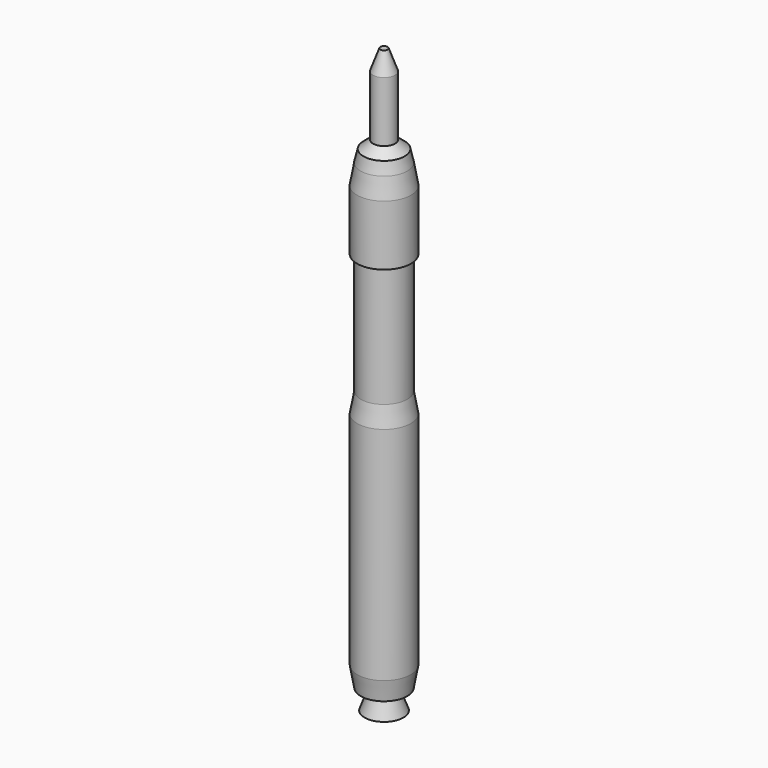
from build123d import *

# Parameters (mm, degrees)
F0_R          = 6.6693816334
F1_DEPTH      = 5
F1_DEPTH_BACK = 50
F1_FACE_R     = 6.6693816334
F2_DEPTH      = 5
F2_TAPER      = 10
F1_FACE1_R    = 6.6693816334
F3_DEPTH      = 5
F3_TAPER      = 10
F4_R          = 3.0163554994
F5_DEPTH      = 5
F5_TAPER      = -20
F6_R          = 4.3040236216
F7_DEPTH      = 5
F7_TAPER      = 20
F8_DEPTH      = 30
F9_R          = 6.6922824671
F10_DEPTH     = 15
F10_FACE_R    = 6.6922824671
F11_DEPTH     = 5
F11_TAPER     = 10
F11_FACE_R    = 5.8106475635
F12_DEPTH     = 3
F12_TAPER     = 13
F12_FACE_R    = 5.1180429902
F13_DEPTH     = 2
F13_TAPER     = 50
F14_DEPTH     = 15
F14_FACE_R    = 2.734535805
F15_DEPTH     = 5
F15_TAPER     = 20


with BuildPart() as f1:
    # F0 (on Top) → F1 (new body, two sides)
    with BuildSketch(Plane.XY) as f1_sk:
        Circle(F0_R)
    extrude(amount=F1_DEPTH)
    extrude(f1_sk.sketch, amount=-F1_DEPTH_BACK)

    # F1_face (on face) → F2 (join)
    with BuildSketch(Plane.XY.offset(5)):
        Circle(F1_FACE_R)
    extrude(amount=F2_DEPTH, taper=F2_TAPER)

    # F1_face1 (on face) → F3 (join)
    with BuildSketch(Plane(origin=(0, 0, -50), x_dir=(1, 0, 0), z_dir=(0, 0, -1))):
        Circle(F1_FACE1_R)
    extrude(amount=F3_DEPTH, taper=F3_TAPER)

    # F4 (on face) → F5 (join)
    with BuildSketch(Plane(origin=(0, 0, -55), x_dir=(1, 0, 0), z_dir=(0, 0, -1))):
        Circle(F4_R)
    extrude(amount=F5_DEPTH, taper=F5_TAPER)

    # F6 (on face) → F7 (cut)
    with BuildSketch(Plane(origin=(0, 0, -60), x_dir=(1, 0, 0), z_dir=(0, 0, -1))):
        Circle(F6_R)
    extrude(amount=-F7_DEPTH, taper=F7_TAPER, mode=Mode.SUBTRACT)

    # F8 (add): a face of the model
    f8_faces = [f1.faces().sort_by_distance(p)[0] for p in [
        (0, 0, 10),
    ]]
    extrude(f8_faces, amount=F8_DEPTH)

    # F9 (on face) → F10 (join)
    with BuildSketch(Plane.XY.offset(40)):
        Circle(F9_R)
    extrude(amount=F10_DEPTH)

    # F10_face (on face) → F11 (join)
    with BuildSketch(Plane.XY.offset(55)):
        Circle(F10_FACE_R)
    extrude(amount=F11_DEPTH, taper=F11_TAPER)

    # F11_face (on face) → F12 (join)
    with BuildSketch(Plane.XY.offset(60)):
        Circle(F11_FACE_R)
    extrude(amount=F12_DEPTH, taper=F12_TAPER)

    # F12_face (on face) → F13 (join)
    with BuildSketch(Plane.XY.offset(63)):
        Circle(F12_FACE_R)
    extrude(amount=F13_DEPTH, taper=F13_TAPER)

    # F14 (add): a face of the model
    f14_faces = [f1.faces().sort_by_distance(p)[0] for p in [
        (0, 0, 65),
    ]]
    extrude(f14_faces, amount=F14_DEPTH)

    # F14_face (on face) → F15 (join)
    with BuildSketch(Plane.XY.offset(80)):
        Circle(F14_FACE_R)
    extrude(amount=F15_DEPTH, taper=F15_TAPER)


solid = f1.part
